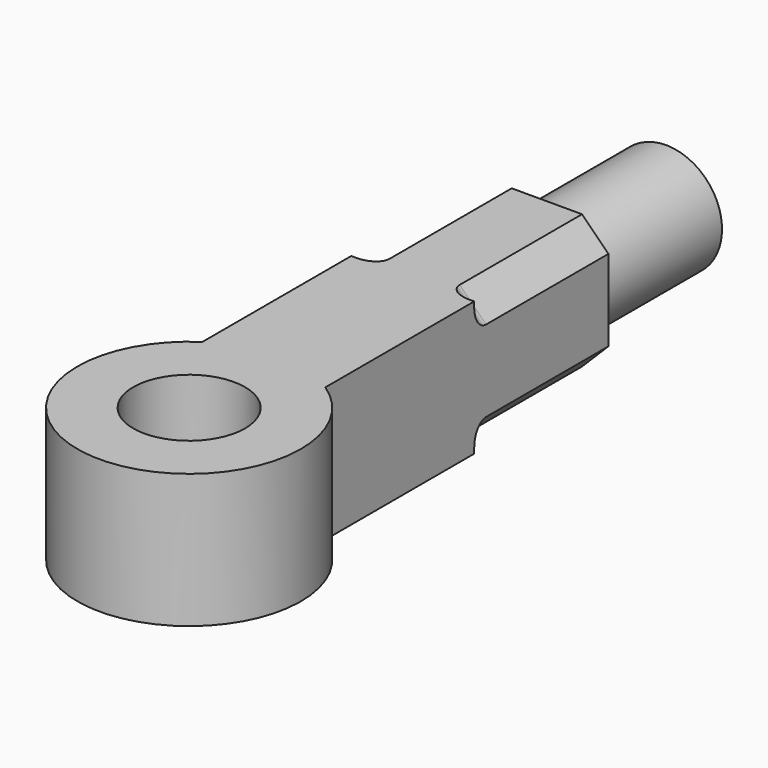
from build123d import *

# Parameters (mm, degrees)
SKETCH_R     = 15
PAD_DEPTH    = 35.98
SKETCH001_R  = 15
PAD001_DEPTH = 40
POCKET_DEPTH = 45
FILLET_R     = 4


with BuildPart() as part:
    # Sketch → Pad (new body)
    with BuildSketch(Plane.XY):
        with BuildLine():
            ThreePointArc((-16.5, 25.05494), (0, -30), (16.5, 25.05494))
            Line((16.5, 25.05494), (16.5, 120))
            Line((16.5, 120), (-16.5, 120))
            Line((-16.5, 120), (-16.5, 25.05494))
        make_face()
        Circle(SKETCH_R, mode=Mode.SUBTRACT)
    extrude(amount=PAD_DEPTH)

    # Sketch001 (on Face3 of Pad) → Pad001 (join)
    with BuildSketch(Plane(origin=(0, 120, 0), x_dir=(-1, 0, 0), z_dir=(0, 1, 0))):
        with Locations((0, 17.99)):
            Circle(SKETCH001_R)
    extrude(amount=PAD001_DEPTH)

    # Sketch002 (on Face6 of Pad001) → Pocket (cut)
    with BuildSketch(Plane(origin=(0, 120, 0), x_dir=(-1, 0, 0), z_dir=(0, 1, 0))):
        Polygon((-16.5, 35.98), (-16.5, 28.908932), (-9.428932, 35.98), align=None)
        Polygon((16.5, 35.98), (16.5, 28.908932), (9.428932, 35.98), align=None)
        Polygon((16.5, 0), (9.428932, 0), (16.5, 7.071068), align=None)
        Polygon((-16.5, 0), (-9.428932, 0), (-16.5, 7.071068), align=None)
    extrude(amount=-POCKET_DEPTH, mode=Mode.SUBTRACT)

    # Fillet
    fillet_edges = [part.edges().sort_by_distance(p)[0] for p in [
        (-12.964466, 75, 3.535534),
        (-12.964466, 75, 32.444466),
        (12.964466, 75, 32.444466),
        (12.964466, 75, 3.535534),
    ]]
    fillet(fillet_edges, radius=FILLET_R)


solid = part.part
